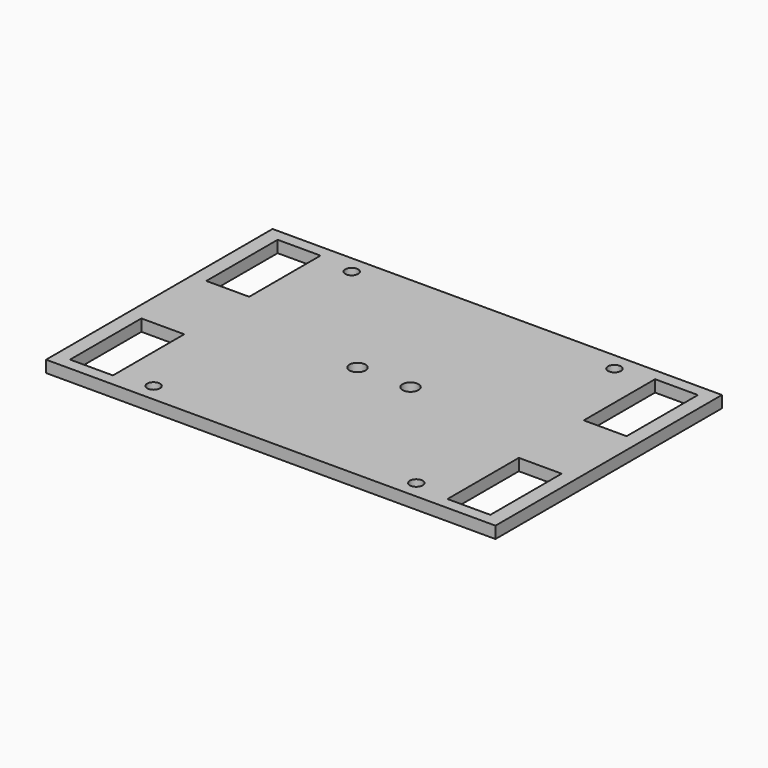
from build123d import *

# Parameters (mm, degrees)
F0_W     = 120.965316
F0_H     = 76.2
F0_R     = 1.7272
F0_W_2   = 11.536045
F0_H_2   = 24
F0_R_2   = 2.15265
F1_DEPTH = 3.175


with BuildPart() as f1:
    # F0 (on Top) → F1 (new body)
    with BuildSketch(Plane.XY):
        Rectangle(F0_W, F0_H)
        with Locations((-35.36249, -33.3375)):
            Circle(F0_R, mode=Mode.SUBTRACT)
        with Locations((-50.8, -22.925)):
            Rectangle(F0_W_2, F0_H_2, mode=Mode.SUBTRACT)
        with Locations((35.36249, -33.3375)):
            Circle(F0_R, mode=Mode.SUBTRACT)
        with Locations((50.8, -22.925)):
            Rectangle(F0_W_2, F0_H_2, mode=Mode.SUBTRACT)
        with Locations((-7.14375, 0)):
            Circle(F0_R_2, mode=Mode.SUBTRACT)
        with Locations((-50.8, 22.925)):
            Rectangle(F0_W_2, F0_H_2, mode=Mode.SUBTRACT)
        with Locations((-35.36249, 33.3375)):
            Circle(F0_R, mode=Mode.SUBTRACT)
        with Locations((7.14375, 0)):
            Circle(F0_R_2, mode=Mode.SUBTRACT)
        Polygon((45.031977, 34.925), (56.568022, 34.925), (56.568023, 10.925), (45.031978, 10.925), align=None, mode=Mode.SUBTRACT)
        with Locations((35.36249, 33.3375)):
            Circle(F0_R, mode=Mode.SUBTRACT)
    extrude(amount=F1_DEPTH)


solid = f1.part
